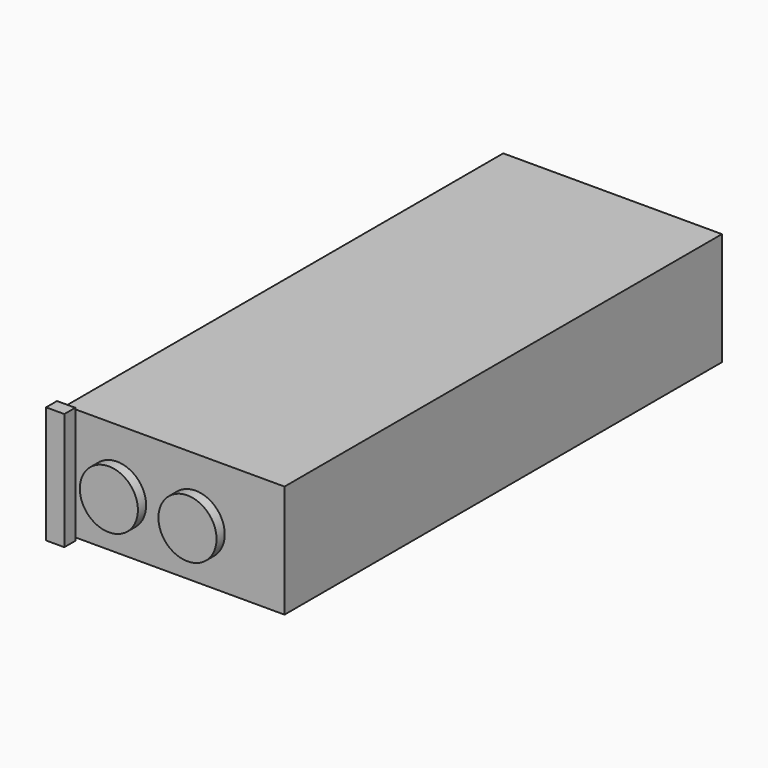
from build123d import *

# Parameters (mm, degrees)
SKETCH001_W   = 64
SKETCH001_H   = 160
PAD_DEPTH     = 33
SKETCH_R      = 8.5
PAD001_DEPTH  = 3
SKETCH002_W   = 5.336926
SKETCH002_H   = 34.30467
EXTRUDE_DEPTH = 4


with BuildPart() as pad001:
    # Sketch001 → Pad (new body)
    with BuildSketch(Plane.XY):
        with Locations((32, 80)):
            Rectangle(SKETCH001_W, SKETCH001_H)
    extrude(amount=PAD_DEPTH)

    # Sketch (on Face3 of Pad) → Pad001 (new body)
    with BuildSketch(Plane.XZ):
        with Locations((15, 15)):
            Circle(SKETCH_R)
        with Locations((38, 15)):
            Circle(SKETCH_R)
    extrude(amount=PAD001_DEPTH)


with BuildPart() as extrude_body:
    # Sketch002 → Extrude (new body)
    with BuildSketch(Plane.XZ):
        with Locations((0.09197, 16.242444)):
            Rectangle(SKETCH002_W, SKETCH002_H)
    extrude(amount=EXTRUDE_DEPTH)


solid = Compound([pad001.part, extrude_body.part])
